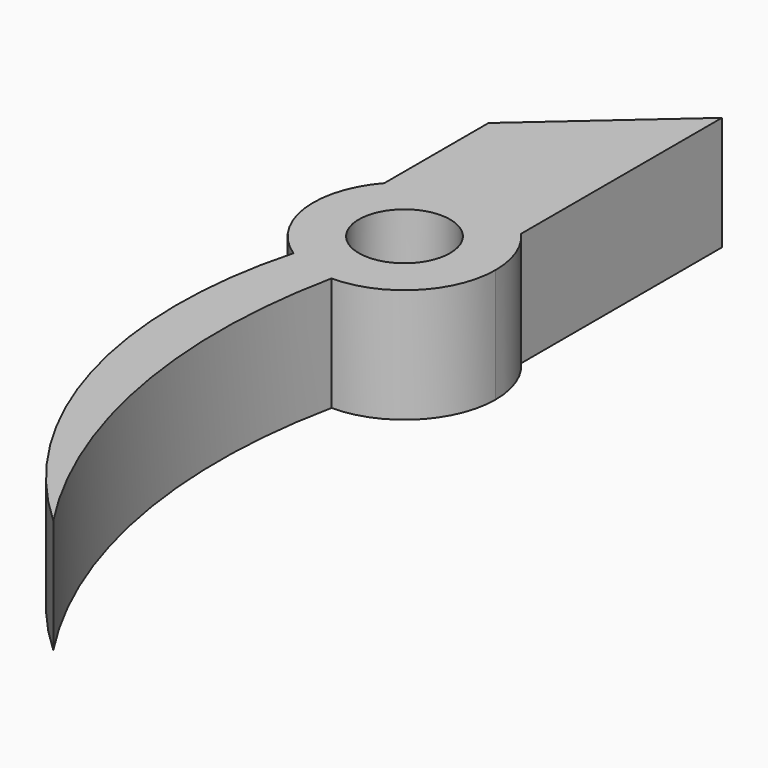
from build123d import *

# Parameters (mm, degrees)
F0_R     = 2
F1_DEPTH = 5


with BuildPart() as f1:
    # F0 (on Top) → F1 (new body)
    with BuildSketch(Plane.XY):
        with BuildLine():
            ThreePointArc((-3, 2.645751), (0, 4), (3, 2.645751))
            Line((3, 2.645751), (3, 13.645751))
            Line((3, 13.645751), (-3, 8.354249))
            Line((-3, 8.354249), (-3, 2.645751))
        make_face()
        with BuildLine():
            ThreePointArc((0, -4), (2.828427, -2.828427), (4, 0))
            ThreePointArc((4, 0), (3.741657, 1.414214), (3, 2.645751))
            ThreePointArc((3, 2.645751), (0, 4), (-3, 2.645751))
            ThreePointArc((-3, 2.645751), (-3.963267, -0.540843), (-2.18141, -3.352827))
            ThreePointArc((-2.18141, -3.352827), (-1.137693, -3.834795), (0, -4))
        make_face()
        Circle(F0_R, mode=Mode.SUBTRACT)
        with BuildLine():
            ThreePointArc((3.779688, -23.968328), (-0.100807, -14.360962), (0, -4))
            ThreePointArc((0, -4), (-1.137693, -3.834795), (-2.18141, -3.352827))
            ThreePointArc((-2.18141, -3.352827), (-2.104688, -14.500237), (3.779688, -23.968328))
        make_face()
    extrude(amount=F1_DEPTH)


solid = f1.part
